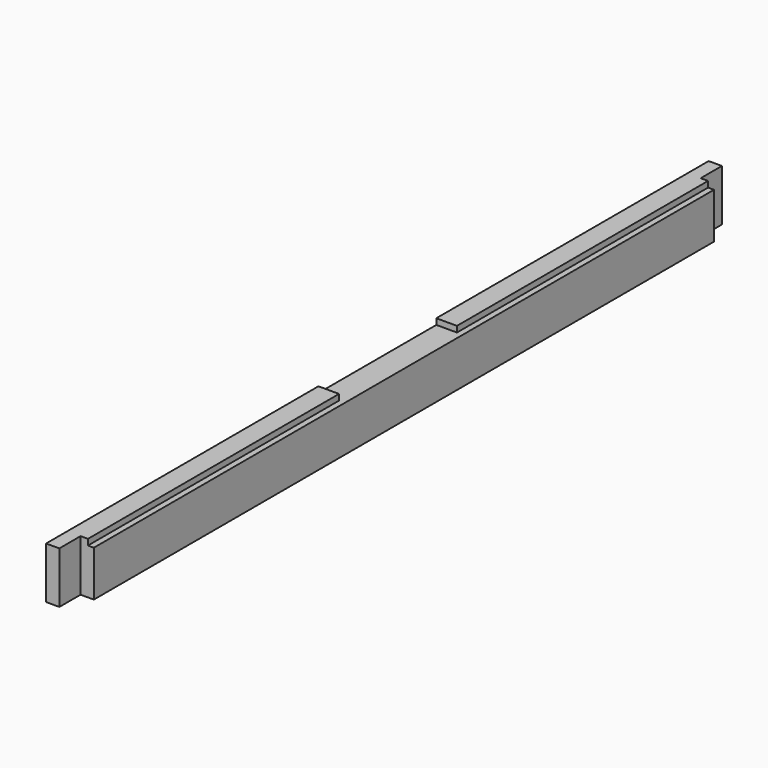
from build123d import *

# Parameters (mm, degrees)
F1_DEPTH = 18
F0_W     = 18
F0_H     = 31
F0_H_2   = 4
F2_DEPTH = 9
F0_W_2   = 213
F3_DEPTH = 14


with BuildPart() as f1:
    # F0 (on Right) → F1 (new body)
    with BuildSketch(Plane.YZ):
        Polygon((18, 31), (18, 0), (544, 0), (544, 31), (331, 31), (281, 31), (231, 31), align=None)
    extrude(amount=F1_DEPTH)

    # F0 (on Right) → F2 (join)
    with BuildSketch(Plane.YZ):
        with Locations((9, 15.5)):
            Rectangle(F0_W, F0_H)
        with Locations((553, 15.5)):
            Rectangle(F0_W, F0_H)
        with Locations((9, 33)):
            Rectangle(F0_W, F0_H_2)
        with Locations((553, 33)):
            Rectangle(F0_W, F0_H_2)
    extrude(amount=F2_DEPTH)

    # F0 (on Right) → F3 (join)
    with BuildSketch(Plane.YZ):
        with Locations((124.5, 33)):
            Rectangle(F0_W_2, F0_H_2)
        with Locations((437.5, 33)):
            Rectangle(F0_W_2, F0_H_2)
    extrude(amount=F3_DEPTH)


solid = f1.part
